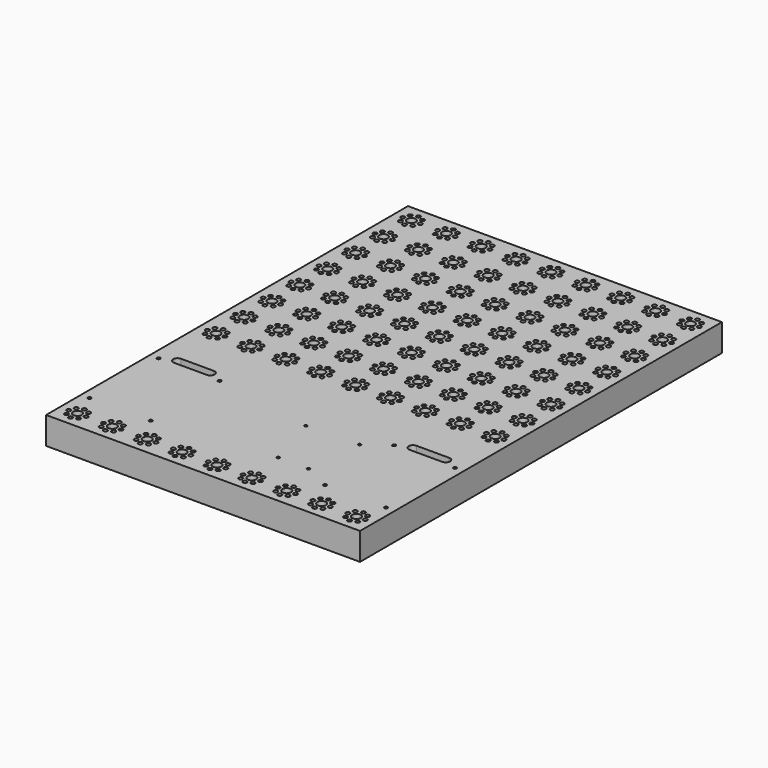
from build123d import *

# Parameters (mm, degrees)
F0_W     = 288
F0_H     = 415
F0_R     = 1.85
F0_R_2   = 4
F0_R_3   = 1.5
F2_DEPTH = 25
F1_R     = 1.85
F1_R_2   = 4
F1_R_3   = 1.3
F3_DEPTH = 25.001


with BuildPart() as f2:
    # F0 (on Top) → F2 (new body)
    with BuildSketch(Plane.XY):
        with Locations((144, -207.5)):
            Rectangle(F0_W, F0_H)
        with Locations((10.343146, -404.656854)):
            Circle(F0_R, mode=Mode.SUBTRACT)
        with Locations((16, -407)):
            Circle(F0_R, mode=Mode.SUBTRACT)
        with Locations((8, -399)):
            Circle(F0_R, mode=Mode.SUBTRACT)
        with Locations((16, -399)):
            Circle(F0_R_2, mode=Mode.SUBTRACT)
        with Locations((10.343146, -393.343146)):
            Circle(F0_R, mode=Mode.SUBTRACT)
        with Locations((16, -391)):
            Circle(F0_R, mode=Mode.SUBTRACT)
        with Locations((21.656854, -404.656854)):
            Circle(F0_R, mode=Mode.SUBTRACT)
        with Locations((24, -399)):
            Circle(F0_R, mode=Mode.SUBTRACT)
        with Locations((21.656854, -393.343146)):
            Circle(F0_R, mode=Mode.SUBTRACT)
        with Locations((8, -375)):
            Circle(F0_R_3, mode=Mode.SUBTRACT)
        with Locations((42.343146, -404.656854)):
            Circle(F0_R, mode=Mode.SUBTRACT)
        with Locations((48, -407)):
            Circle(F0_R, mode=Mode.SUBTRACT)
        with Locations((53.656854, -404.656854)):
            Circle(F0_R, mode=Mode.SUBTRACT)
        with Locations((40, -399)):
            Circle(F0_R, mode=Mode.SUBTRACT)
        with Locations((42.343146, -393.343146)):
            Circle(F0_R, mode=Mode.SUBTRACT)
        with Locations((48, -399)):
            Circle(F0_R_2, mode=Mode.SUBTRACT)
        with Locations((48, -391)):
            Circle(F0_R, mode=Mode.SUBTRACT)
        with Locations((53.656854, -393.343146)):
            Circle(F0_R, mode=Mode.SUBTRACT)
        with Locations((56, -399)):
            Circle(F0_R, mode=Mode.SUBTRACT)
        with Locations((64, -375)):
            Circle(F0_R_3, mode=Mode.SUBTRACT)
        with Locations((74.343146, -404.656854)):
            Circle(F0_R, mode=Mode.SUBTRACT)
        with Locations((80, -407)):
            Circle(F0_R, mode=Mode.SUBTRACT)
        with Locations((85.656854, -404.656854)):
            Circle(F0_R, mode=Mode.SUBTRACT)
        with Locations((72, -399)):
            Circle(F0_R, mode=Mode.SUBTRACT)
        with Locations((80, -399)):
            Circle(F0_R_2, mode=Mode.SUBTRACT)
        with Locations((74.343146, -393.343146)):
            Circle(F0_R, mode=Mode.SUBTRACT)
        with Locations((80, -391)):
            Circle(F0_R, mode=Mode.SUBTRACT)
        with Locations((88, -399)):
            Circle(F0_R, mode=Mode.SUBTRACT)
        with Locations((85.656854, -393.343146)):
            Circle(F0_R, mode=Mode.SUBTRACT)
        with Locations((106.343146, -404.656854)):
            Circle(F0_R, mode=Mode.SUBTRACT)
        with Locations((104, -399)):
            Circle(F0_R, mode=Mode.SUBTRACT)
        with Locations((106.343146, -393.343146)):
            Circle(F0_R, mode=Mode.SUBTRACT)
        with Locations((112, -407)):
            Circle(F0_R, mode=Mode.SUBTRACT)
        with Locations((117.656854, -404.656854)):
            Circle(F0_R, mode=Mode.SUBTRACT)
        with Locations((112, -399)):
            Circle(F0_R_2, mode=Mode.SUBTRACT)
        with Locations((112, -391)):
            Circle(F0_R, mode=Mode.SUBTRACT)
        with Locations((120, -399)):
            Circle(F0_R, mode=Mode.SUBTRACT)
        with Locations((117.656854, -393.343146)):
            Circle(F0_R, mode=Mode.SUBTRACT)
        with Locations((138.343146, -404.656854)):
            Circle(F0_R, mode=Mode.SUBTRACT)
        with Locations((136, -399)):
            Circle(F0_R, mode=Mode.SUBTRACT)
        with Locations((138.343146, -393.343146)):
            Circle(F0_R, mode=Mode.SUBTRACT)
        with Locations((8, -296)):
            Circle(F0_R_3, mode=Mode.SUBTRACT)
        with BuildLine():
            ThreePointArc((17, -290.5), (18.171573, -287.671573), (21, -286.5))
            Line((21, -286.5), (51, -286.5))
            ThreePointArc((51, -286.5), (53.828427, -287.671573), (55, -290.5))
            ThreePointArc((55, -290.5), (53.828427, -293.328427), (51, -294.5))
            Line((51, -294.5), (21, -294.5))
            ThreePointArc((21, -294.5), (18.171573, -293.328427), (17, -290.5))
        make_face(mode=Mode.SUBTRACT)
        with Locations((64, -296)):
            Circle(F0_R_3, mode=Mode.SUBTRACT)
        with Locations((144, -407)):
            Circle(F0_R, mode=Mode.SUBTRACT)
        with Locations((149.656854, -404.656854)):
            Circle(F0_R, mode=Mode.SUBTRACT)
        with Locations((144, -399)):
            Circle(F0_R_2, mode=Mode.SUBTRACT)
        with Locations((152, -399)):
            Circle(F0_R, mode=Mode.SUBTRACT)
        with Locations((144, -391)):
            Circle(F0_R, mode=Mode.SUBTRACT)
        with Locations((149.656854, -393.343146)):
            Circle(F0_R, mode=Mode.SUBTRACT)
        with Locations((170.343146, -404.656854)):
            Circle(F0_R, mode=Mode.SUBTRACT)
        with Locations((176, -407)):
            Circle(F0_R, mode=Mode.SUBTRACT)
        with Locations((168, -399)):
            Circle(F0_R, mode=Mode.SUBTRACT)
        with Locations((170.343146, -393.343146)):
            Circle(F0_R, mode=Mode.SUBTRACT)
        with Locations((176, -399)):
            Circle(F0_R_2, mode=Mode.SUBTRACT)
        with Locations((176, -391)):
            Circle(F0_R, mode=Mode.SUBTRACT)
        with Locations((181.656854, -404.656854)):
            Circle(F0_R, mode=Mode.SUBTRACT)
        with Locations((184, -399)):
            Circle(F0_R, mode=Mode.SUBTRACT)
        with Locations((181.656854, -393.343146)):
            Circle(F0_R, mode=Mode.SUBTRACT)
        with Locations((202.343146, -404.656854)):
            Circle(F0_R, mode=Mode.SUBTRACT)
        with Locations((208, -407)):
            Circle(F0_R, mode=Mode.SUBTRACT)
        with Locations((213.656854, -404.656854)):
            Circle(F0_R, mode=Mode.SUBTRACT)
        with Locations((200, -399)):
            Circle(F0_R, mode=Mode.SUBTRACT)
        with Locations((202.343146, -393.343146)):
            Circle(F0_R, mode=Mode.SUBTRACT)
        with Locations((208, -399)):
            Circle(F0_R_2, mode=Mode.SUBTRACT)
        with Locations((208, -391)):
            Circle(F0_R, mode=Mode.SUBTRACT)
        with Locations((213.656854, -393.343146)):
            Circle(F0_R, mode=Mode.SUBTRACT)
        with Locations((216, -399)):
            Circle(F0_R, mode=Mode.SUBTRACT)
        with Locations((232, -399)):
            Circle(F0_R, mode=Mode.SUBTRACT)
        with Locations((234.343146, -404.656854)):
            Circle(F0_R, mode=Mode.SUBTRACT)
        with Locations((240, -407)):
            Circle(F0_R, mode=Mode.SUBTRACT)
        with Locations((245.656854, -404.656854)):
            Circle(F0_R, mode=Mode.SUBTRACT)
        with Locations((240, -399)):
            Circle(F0_R_2, mode=Mode.SUBTRACT)
        with Locations((234.343146, -393.343146)):
            Circle(F0_R, mode=Mode.SUBTRACT)
        with Locations((240, -391)):
            Circle(F0_R, mode=Mode.SUBTRACT)
        with Locations((248, -399)):
            Circle(F0_R, mode=Mode.SUBTRACT)
        with Locations((245.656854, -393.343146)):
            Circle(F0_R, mode=Mode.SUBTRACT)
        with Locations((224, -375)):
            Circle(F0_R_3, mode=Mode.SUBTRACT)
        with Locations((266.343146, -404.656854)):
            Circle(F0_R, mode=Mode.SUBTRACT)
        with Locations((264, -399)):
            Circle(F0_R, mode=Mode.SUBTRACT)
        with Locations((266.343146, -393.343146)):
            Circle(F0_R, mode=Mode.SUBTRACT)
        with Locations((272, -407)):
            Circle(F0_R, mode=Mode.SUBTRACT)
        with Locations((277.656854, -404.656854)):
            Circle(F0_R, mode=Mode.SUBTRACT)
        with Locations((272, -399)):
            Circle(F0_R_2, mode=Mode.SUBTRACT)
        with Locations((272, -391)):
            Circle(F0_R, mode=Mode.SUBTRACT)
        with Locations((277.656854, -393.343146)):
            Circle(F0_R, mode=Mode.SUBTRACT)
        with Locations((280, -399)):
            Circle(F0_R, mode=Mode.SUBTRACT)
        with Locations((280, -375)):
            Circle(F0_R_3, mode=Mode.SUBTRACT)
        with Locations((224, -296)):
            Circle(F0_R_3, mode=Mode.SUBTRACT)
        with BuildLine():
            Line((237, -286.5), (267, -286.5))
            ThreePointArc((267, -286.5), (269.828427, -287.671573), (271, -290.5))
            ThreePointArc((271, -290.5), (269.828427, -293.328427), (267, -294.5))
            Line((267, -294.5), (237, -294.5))
            ThreePointArc((237, -294.5), (234.171573, -293.328427), (233, -290.5))
            ThreePointArc((233, -290.5), (234.171573, -287.671573), (237, -286.5))
        make_face(mode=Mode.SUBTRACT)
        with Locations((280, -296)):
            Circle(F0_R_3, mode=Mode.SUBTRACT)
        with Locations((8, -16)):
            Circle(F0_R, mode=Mode.SUBTRACT)
        with Locations((10.343146, -21.656854)):
            Circle(F0_R, mode=Mode.SUBTRACT)
        with Locations((16, -24)):
            Circle(F0_R, mode=Mode.SUBTRACT)
        with Locations((16, -16)):
            Circle(F0_R_2, mode=Mode.SUBTRACT)
        with Locations((10.343146, -10.343146)):
            Circle(F0_R, mode=Mode.SUBTRACT)
        with Locations((16, -8)):
            Circle(F0_R, mode=Mode.SUBTRACT)
        with Locations((21.656854, -21.656854)):
            Circle(F0_R, mode=Mode.SUBTRACT)
        with Locations((24, -16)):
            Circle(F0_R, mode=Mode.SUBTRACT)
        with Locations((21.656854, -10.343146)):
            Circle(F0_R, mode=Mode.SUBTRACT)
        with Locations((42.343146, -21.656854)):
            Circle(F0_R, mode=Mode.SUBTRACT)
        with Locations((40, -16)):
            Circle(F0_R, mode=Mode.SUBTRACT)
        with Locations((48, -24)):
            Circle(F0_R, mode=Mode.SUBTRACT)
        with Locations((53.656854, -21.656854)):
            Circle(F0_R, mode=Mode.SUBTRACT)
        with Locations((48, -16)):
            Circle(F0_R_2, mode=Mode.SUBTRACT)
        with Locations((42.343146, -10.343146)):
            Circle(F0_R, mode=Mode.SUBTRACT)
        with Locations((48, -8)):
            Circle(F0_R, mode=Mode.SUBTRACT)
        with Locations((53.656854, -10.343146)):
            Circle(F0_R, mode=Mode.SUBTRACT)
        with Locations((56, -16)):
            Circle(F0_R, mode=Mode.SUBTRACT)
        with Locations((74.343146, -21.656854)):
            Circle(F0_R, mode=Mode.SUBTRACT)
        with Locations((80, -24)):
            Circle(F0_R, mode=Mode.SUBTRACT)
        with Locations((72, -16)):
            Circle(F0_R, mode=Mode.SUBTRACT)
        with Locations((80, -16)):
            Circle(F0_R_2, mode=Mode.SUBTRACT)
        with Locations((85.656854, -21.656854)):
            Circle(F0_R, mode=Mode.SUBTRACT)
        with Locations((88, -16)):
            Circle(F0_R, mode=Mode.SUBTRACT)
        with Locations((74.343146, -10.343146)):
            Circle(F0_R, mode=Mode.SUBTRACT)
        with Locations((80, -8)):
            Circle(F0_R, mode=Mode.SUBTRACT)
        with Locations((85.656854, -10.343146)):
            Circle(F0_R, mode=Mode.SUBTRACT)
        with Locations((106.343146, -21.656854)):
            Circle(F0_R, mode=Mode.SUBTRACT)
        with Locations((104, -16)):
            Circle(F0_R, mode=Mode.SUBTRACT)
        with Locations((106.343146, -10.343146)):
            Circle(F0_R, mode=Mode.SUBTRACT)
        with Locations((112, -24)):
            Circle(F0_R, mode=Mode.SUBTRACT)
        with Locations((112, -16)):
            Circle(F0_R_2, mode=Mode.SUBTRACT)
        with Locations((117.656854, -21.656854)):
            Circle(F0_R, mode=Mode.SUBTRACT)
        with Locations((120, -16)):
            Circle(F0_R, mode=Mode.SUBTRACT)
        with Locations((112, -8)):
            Circle(F0_R, mode=Mode.SUBTRACT)
        with Locations((117.656854, -10.343146)):
            Circle(F0_R, mode=Mode.SUBTRACT)
        with Locations((138.343146, -21.656854)):
            Circle(F0_R, mode=Mode.SUBTRACT)
        with Locations((136, -16)):
            Circle(F0_R, mode=Mode.SUBTRACT)
        with Locations((138.343146, -10.343146)):
            Circle(F0_R, mode=Mode.SUBTRACT)
        with Locations((144, -24)):
            Circle(F0_R, mode=Mode.SUBTRACT)
        with Locations((149.656854, -21.656854)):
            Circle(F0_R, mode=Mode.SUBTRACT)
        with Locations((144, -16)):
            Circle(F0_R_2, mode=Mode.SUBTRACT)
        with Locations((152, -16)):
            Circle(F0_R, mode=Mode.SUBTRACT)
        with Locations((144, -8)):
            Circle(F0_R, mode=Mode.SUBTRACT)
        with Locations((149.656854, -10.343146)):
            Circle(F0_R, mode=Mode.SUBTRACT)
        with Locations((170.343146, -21.656854)):
            Circle(F0_R, mode=Mode.SUBTRACT)
        with Locations((168, -16)):
            Circle(F0_R, mode=Mode.SUBTRACT)
        with Locations((176, -24)):
            Circle(F0_R, mode=Mode.SUBTRACT)
        with Locations((176, -16)):
            Circle(F0_R_2, mode=Mode.SUBTRACT)
        with Locations((170.343146, -10.343146)):
            Circle(F0_R, mode=Mode.SUBTRACT)
        with Locations((176, -8)):
            Circle(F0_R, mode=Mode.SUBTRACT)
        with Locations((181.656854, -21.656854)):
            Circle(F0_R, mode=Mode.SUBTRACT)
        with Locations((184, -16)):
            Circle(F0_R, mode=Mode.SUBTRACT)
        with Locations((181.656854, -10.343146)):
            Circle(F0_R, mode=Mode.SUBTRACT)
        with Locations((202.343146, -21.656854)):
            Circle(F0_R, mode=Mode.SUBTRACT)
        with Locations((200, -16)):
            Circle(F0_R, mode=Mode.SUBTRACT)
        with Locations((208, -24)):
            Circle(F0_R, mode=Mode.SUBTRACT)
        with Locations((213.656854, -21.656854)):
            Circle(F0_R, mode=Mode.SUBTRACT)
        with Locations((208, -16)):
            Circle(F0_R_2, mode=Mode.SUBTRACT)
        with Locations((202.343146, -10.343146)):
            Circle(F0_R, mode=Mode.SUBTRACT)
        with Locations((208, -8)):
            Circle(F0_R, mode=Mode.SUBTRACT)
        with Locations((213.656854, -10.343146)):
            Circle(F0_R, mode=Mode.SUBTRACT)
        with Locations((216, -16)):
            Circle(F0_R, mode=Mode.SUBTRACT)
        with Locations((232, -16)):
            Circle(F0_R, mode=Mode.SUBTRACT)
        with Locations((234.343146, -21.656854)):
            Circle(F0_R, mode=Mode.SUBTRACT)
        with Locations((240, -24)):
            Circle(F0_R, mode=Mode.SUBTRACT)
        with Locations((240, -16)):
            Circle(F0_R_2, mode=Mode.SUBTRACT)
        with Locations((245.656854, -21.656854)):
            Circle(F0_R, mode=Mode.SUBTRACT)
        with Locations((248, -16)):
            Circle(F0_R, mode=Mode.SUBTRACT)
        with Locations((234.343146, -10.343146)):
            Circle(F0_R, mode=Mode.SUBTRACT)
        with Locations((240, -8)):
            Circle(F0_R, mode=Mode.SUBTRACT)
        with Locations((245.656854, -10.343146)):
            Circle(F0_R, mode=Mode.SUBTRACT)
        with Locations((266.343146, -21.656854)):
            Circle(F0_R, mode=Mode.SUBTRACT)
        with Locations((264, -16)):
            Circle(F0_R, mode=Mode.SUBTRACT)
        with Locations((266.343146, -10.343146)):
            Circle(F0_R, mode=Mode.SUBTRACT)
        with Locations((272, -24)):
            Circle(F0_R, mode=Mode.SUBTRACT)
        with Locations((277.656854, -21.656854)):
            Circle(F0_R, mode=Mode.SUBTRACT)
        with Locations((272, -16)):
            Circle(F0_R_2, mode=Mode.SUBTRACT)
        with Locations((280, -16)):
            Circle(F0_R, mode=Mode.SUBTRACT)
        with Locations((272, -8)):
            Circle(F0_R, mode=Mode.SUBTRACT)
        with Locations((277.656854, -10.343146)):
            Circle(F0_R, mode=Mode.SUBTRACT)
    extrude(amount=F2_DEPTH)

    # F1 (on face) → F3 (cut, through all)
    with BuildSketch(Plane.XY):
        with Locations((24, -48)):
            Circle(F1_R)
        with Locations((16, -48)):
            Circle(F1_R_2)
        with Locations((21.656854, -42.343146)):
            Circle(F1_R)
        with Locations((16, -40)):
            Circle(F1_R)
        with Locations((10.343146, -42.343146)):
            Circle(F1_R)
        with Locations((8, -48)):
            Circle(F1_R)
        with Locations((10.343146, -53.656854)):
            Circle(F1_R)
        with Locations((16, -56)):
            Circle(F1_R)
        with Locations((21.656854, -53.656854)):
            Circle(F1_R)
        with Locations((16, -80)):
            Circle(F1_R_2)
        with Locations((16, -72)):
            Circle(F1_R)
        with Locations((21.656854, -74.343146)):
            Circle(F1_R)
        with Locations((24, -80)):
            Circle(F1_R)
        with Locations((21.656854, -85.656854)):
            Circle(F1_R)
        with Locations((16, -88)):
            Circle(F1_R)
        with Locations((10.343146, -85.656854)):
            Circle(F1_R)
        with Locations((8, -80)):
            Circle(F1_R)
        with Locations((10.343146, -74.343146)):
            Circle(F1_R)
        with Locations((16, -112)):
            Circle(F1_R_2)
        with Locations((16, -104)):
            Circle(F1_R)
        with Locations((21.656854, -106.343146)):
            Circle(F1_R)
        with Locations((24, -112)):
            Circle(F1_R)
        with Locations((21.656854, -117.656854)):
            Circle(F1_R)
        with Locations((16, -120)):
            Circle(F1_R)
        with Locations((10.343146, -117.656854)):
            Circle(F1_R)
        with Locations((8, -112)):
            Circle(F1_R)
        with Locations((10.343146, -106.343146)):
            Circle(F1_R)
        with Locations((16, -144)):
            Circle(F1_R_2)
        with Locations((16, -136)):
            Circle(F1_R)
        with Locations((21.656854, -138.343146)):
            Circle(F1_R)
        with Locations((24, -144)):
            Circle(F1_R)
        with Locations((21.656854, -149.656854)):
            Circle(F1_R)
        with Locations((16, -152)):
            Circle(F1_R)
        with Locations((10.343146, -149.656854)):
            Circle(F1_R)
        with Locations((8, -144)):
            Circle(F1_R)
        with Locations((10.343146, -138.343146)):
            Circle(F1_R)
        with Locations((16, -176)):
            Circle(F1_R_2)
        with Locations((16, -168)):
            Circle(F1_R)
        with Locations((21.656854, -170.343146)):
            Circle(F1_R)
        with Locations((24, -176)):
            Circle(F1_R)
        with Locations((21.656854, -181.656854)):
            Circle(F1_R)
        with Locations((16, -184)):
            Circle(F1_R)
        with Locations((10.343146, -181.656854)):
            Circle(F1_R)
        with Locations((8, -176)):
            Circle(F1_R)
        with Locations((10.343146, -170.343146)):
            Circle(F1_R)
        with Locations((16, -208)):
            Circle(F1_R_2)
        with Locations((16, -200)):
            Circle(F1_R)
        with Locations((21.656854, -202.343146)):
            Circle(F1_R)
        with Locations((24, -208)):
            Circle(F1_R)
        with Locations((21.656854, -213.656854)):
            Circle(F1_R)
        with Locations((16, -216)):
            Circle(F1_R)
        with Locations((10.343146, -213.656854)):
            Circle(F1_R)
        with Locations((8, -208)):
            Circle(F1_R)
        with Locations((10.343146, -202.343146)):
            Circle(F1_R)
        with Locations((16, -240)):
            Circle(F1_R_2)
        with Locations((16, -232)):
            Circle(F1_R)
        with Locations((21.656854, -234.343146)):
            Circle(F1_R)
        with Locations((24, -240)):
            Circle(F1_R)
        with Locations((21.656854, -245.656854)):
            Circle(F1_R)
        with Locations((16, -248)):
            Circle(F1_R)
        with Locations((10.343146, -245.656854)):
            Circle(F1_R)
        with Locations((8, -240)):
            Circle(F1_R)
        with Locations((10.343146, -234.343146)):
            Circle(F1_R)
        with Locations((48, -48)):
            Circle(F1_R_2)
        with Locations((48, -40)):
            Circle(F1_R)
        with Locations((53.656854, -42.343146)):
            Circle(F1_R)
        with Locations((56, -48)):
            Circle(F1_R)
        with Locations((53.656854, -53.656854)):
            Circle(F1_R)
        with Locations((48, -56)):
            Circle(F1_R)
        with Locations((42.343146, -53.656854)):
            Circle(F1_R)
        with Locations((40, -48)):
            Circle(F1_R)
        with Locations((42.343146, -42.343146)):
            Circle(F1_R)
        with Locations((48, -80)):
            Circle(F1_R_2)
        with Locations((48, -72)):
            Circle(F1_R)
        with Locations((53.656854, -74.343146)):
            Circle(F1_R)
        with Locations((56, -80)):
            Circle(F1_R)
        with Locations((53.656854, -85.656854)):
            Circle(F1_R)
        with Locations((48, -88)):
            Circle(F1_R)
        with Locations((42.343146, -85.656854)):
            Circle(F1_R)
        with Locations((40, -80)):
            Circle(F1_R)
        with Locations((42.343146, -74.343146)):
            Circle(F1_R)
        with Locations((48, -112)):
            Circle(F1_R_2)
        with Locations((48, -104)):
            Circle(F1_R)
        with Locations((53.656854, -106.343146)):
            Circle(F1_R)
        with Locations((56, -112)):
            Circle(F1_R)
        with Locations((53.656854, -117.656854)):
            Circle(F1_R)
        with Locations((48, -120)):
            Circle(F1_R)
        with Locations((42.343146, -117.656854)):
            Circle(F1_R)
        with Locations((40, -112)):
            Circle(F1_R)
        with Locations((42.343146, -106.343146)):
            Circle(F1_R)
        with Locations((48, -144)):
            Circle(F1_R_2)
        with Locations((48, -136)):
            Circle(F1_R)
        with Locations((53.656854, -138.343146)):
            Circle(F1_R)
        with Locations((56, -144)):
            Circle(F1_R)
        with Locations((53.656854, -149.656854)):
            Circle(F1_R)
        with Locations((48, -152)):
            Circle(F1_R)
        with Locations((42.343146, -149.656854)):
            Circle(F1_R)
        with Locations((40, -144)):
            Circle(F1_R)
        with Locations((42.343146, -138.343146)):
            Circle(F1_R)
        with Locations((48, -176)):
            Circle(F1_R_2)
        with Locations((48, -168)):
            Circle(F1_R)
        with Locations((53.656854, -170.343146)):
            Circle(F1_R)
        with Locations((56, -176)):
            Circle(F1_R)
        with Locations((53.656854, -181.656854)):
            Circle(F1_R)
        with Locations((48, -184)):
            Circle(F1_R)
        with Locations((42.343146, -181.656854)):
            Circle(F1_R)
        with Locations((40, -176)):
            Circle(F1_R)
        with Locations((42.343146, -170.343146)):
            Circle(F1_R)
        with Locations((48, -208)):
            Circle(F1_R_2)
        with Locations((48, -200)):
            Circle(F1_R)
        with Locations((53.656854, -202.343146)):
            Circle(F1_R)
        with Locations((56, -208)):
            Circle(F1_R)
        with Locations((53.656854, -213.656854)):
            Circle(F1_R)
        with Locations((48, -216)):
            Circle(F1_R)
        with Locations((42.343146, -213.656854)):
            Circle(F1_R)
        with Locations((40, -208)):
            Circle(F1_R)
        with Locations((42.343146, -202.343146)):
            Circle(F1_R)
        with Locations((48, -240)):
            Circle(F1_R_2)
        with Locations((48, -232)):
            Circle(F1_R)
        with Locations((53.656854, -234.343146)):
            Circle(F1_R)
        with Locations((56, -240)):
            Circle(F1_R)
        with Locations((53.656854, -245.656854)):
            Circle(F1_R)
        with Locations((48, -248)):
            Circle(F1_R)
        with Locations((42.343146, -245.656854)):
            Circle(F1_R)
        with Locations((40, -240)):
            Circle(F1_R)
        with Locations((42.343146, -234.343146)):
            Circle(F1_R)
        with Locations((80, -48)):
            Circle(F1_R_2)
        with Locations((80, -40)):
            Circle(F1_R)
        with Locations((85.656854, -42.343146)):
            Circle(F1_R)
        with Locations((88, -48)):
            Circle(F1_R)
        with Locations((85.656854, -53.656854)):
            Circle(F1_R)
        with Locations((80, -56)):
            Circle(F1_R)
        with Locations((74.343146, -53.656854)):
            Circle(F1_R)
        with Locations((72, -48)):
            Circle(F1_R)
        with Locations((74.343146, -42.343146)):
            Circle(F1_R)
        with Locations((80, -80)):
            Circle(F1_R_2)
        with Locations((80, -72)):
            Circle(F1_R)
        with Locations((85.656854, -74.343146)):
            Circle(F1_R)
        with Locations((88, -80)):
            Circle(F1_R)
        with Locations((85.656854, -85.656854)):
            Circle(F1_R)
        with Locations((80, -88)):
            Circle(F1_R)
        with Locations((74.343146, -85.656854)):
            Circle(F1_R)
        with Locations((72, -80)):
            Circle(F1_R)
        with Locations((74.343146, -74.343146)):
            Circle(F1_R)
        with Locations((80, -112)):
            Circle(F1_R_2)
        with Locations((80, -104)):
            Circle(F1_R)
        with Locations((85.656854, -106.343146)):
            Circle(F1_R)
        with Locations((88, -112)):
            Circle(F1_R)
        with Locations((85.656854, -117.656854)):
            Circle(F1_R)
        with Locations((80, -120)):
            Circle(F1_R)
        with Locations((74.343146, -117.656854)):
            Circle(F1_R)
        with Locations((72, -112)):
            Circle(F1_R)
        with Locations((74.343146, -106.343146)):
            Circle(F1_R)
        with Locations((80, -144)):
            Circle(F1_R_2)
        with Locations((80, -136)):
            Circle(F1_R)
        with Locations((85.656854, -138.343146)):
            Circle(F1_R)
        with Locations((88, -144)):
            Circle(F1_R)
        with Locations((85.656854, -149.656854)):
            Circle(F1_R)
        with Locations((80, -152)):
            Circle(F1_R)
        with Locations((74.343146, -149.656854)):
            Circle(F1_R)
        with Locations((72, -144)):
            Circle(F1_R)
        with Locations((74.343146, -138.343146)):
            Circle(F1_R)
        with Locations((80, -176)):
            Circle(F1_R_2)
        with Locations((80, -168)):
            Circle(F1_R)
        with Locations((85.656854, -170.343146)):
            Circle(F1_R)
        with Locations((88, -176)):
            Circle(F1_R)
        with Locations((85.656854, -181.656854)):
            Circle(F1_R)
        with Locations((80, -184)):
            Circle(F1_R)
        with Locations((74.343146, -181.656854)):
            Circle(F1_R)
        with Locations((72, -176)):
            Circle(F1_R)
        with Locations((74.343146, -170.343146)):
            Circle(F1_R)
        with Locations((80, -208)):
            Circle(F1_R_2)
        with Locations((80, -200)):
            Circle(F1_R)
        with Locations((85.656854, -202.343146)):
            Circle(F1_R)
        with Locations((88, -208)):
            Circle(F1_R)
        with Locations((85.656854, -213.656854)):
            Circle(F1_R)
        with Locations((80, -216)):
            Circle(F1_R)
        with Locations((74.343146, -213.656854)):
            Circle(F1_R)
        with Locations((72, -208)):
            Circle(F1_R)
        with Locations((74.343146, -202.343146)):
            Circle(F1_R)
        with Locations((80, -240)):
            Circle(F1_R_2)
        with Locations((80, -232)):
            Circle(F1_R)
        with Locations((85.656854, -234.343146)):
            Circle(F1_R)
        with Locations((88, -240)):
            Circle(F1_R)
        with Locations((85.656854, -245.656854)):
            Circle(F1_R)
        with Locations((80, -248)):
            Circle(F1_R)
        with Locations((74.343146, -245.656854)):
            Circle(F1_R)
        with Locations((72, -240)):
            Circle(F1_R)
        with Locations((74.343146, -234.343146)):
            Circle(F1_R)
        with Locations((112, -48)):
            Circle(F1_R_2)
        with Locations((112, -40)):
            Circle(F1_R)
        with Locations((117.656854, -42.343146)):
            Circle(F1_R)
        with Locations((120, -48)):
            Circle(F1_R)
        with Locations((117.656854, -53.656854)):
            Circle(F1_R)
        with Locations((112, -56)):
            Circle(F1_R)
        with Locations((106.343146, -53.656854)):
            Circle(F1_R)
        with Locations((104, -48)):
            Circle(F1_R)
        with Locations((106.343146, -42.343146)):
            Circle(F1_R)
        with Locations((112, -80)):
            Circle(F1_R_2)
        with Locations((112, -72)):
            Circle(F1_R)
        with Locations((117.656854, -74.343146)):
            Circle(F1_R)
        with Locations((120, -80)):
            Circle(F1_R)
        with Locations((117.656854, -85.656854)):
            Circle(F1_R)
        with Locations((112, -88)):
            Circle(F1_R)
        with Locations((106.343146, -85.656854)):
            Circle(F1_R)
        with Locations((104, -80)):
            Circle(F1_R)
        with Locations((106.343146, -74.343146)):
            Circle(F1_R)
        with Locations((112, -112)):
            Circle(F1_R_2)
        with Locations((112, -104)):
            Circle(F1_R)
        with Locations((117.656854, -106.343146)):
            Circle(F1_R)
        with Locations((120, -112)):
            Circle(F1_R)
        with Locations((117.656854, -117.656854)):
            Circle(F1_R)
        with Locations((112, -120)):
            Circle(F1_R)
        with Locations((106.343146, -117.656854)):
            Circle(F1_R)
        with Locations((104, -112)):
            Circle(F1_R)
        with Locations((106.343146, -106.343146)):
            Circle(F1_R)
        with Locations((112, -144)):
            Circle(F1_R_2)
        with Locations((112, -136)):
            Circle(F1_R)
        with Locations((117.656854, -138.343146)):
            Circle(F1_R)
        with Locations((120, -144)):
            Circle(F1_R)
        with Locations((117.656854, -149.656854)):
            Circle(F1_R)
        with Locations((112, -152)):
            Circle(F1_R)
        with Locations((106.343146, -149.656854)):
            Circle(F1_R)
        with Locations((104, -144)):
            Circle(F1_R)
        with Locations((106.343146, -138.343146)):
            Circle(F1_R)
        with Locations((112, -176)):
            Circle(F1_R_2)
        with Locations((112, -168)):
            Circle(F1_R)
        with Locations((117.656854, -170.343146)):
            Circle(F1_R)
        with Locations((120, -176)):
            Circle(F1_R)
        with Locations((117.656854, -181.656854)):
            Circle(F1_R)
        with Locations((112, -184)):
            Circle(F1_R)
        with Locations((106.343146, -181.656854)):
            Circle(F1_R)
        with Locations((104, -176)):
            Circle(F1_R)
        with Locations((106.343146, -170.343146)):
            Circle(F1_R)
        with Locations((112, -208)):
            Circle(F1_R_2)
        with Locations((112, -200)):
            Circle(F1_R)
        with Locations((117.656854, -202.343146)):
            Circle(F1_R)
        with Locations((120, -208)):
            Circle(F1_R)
        with Locations((117.656854, -213.656854)):
            Circle(F1_R)
        with Locations((112, -216)):
            Circle(F1_R)
        with Locations((106.343146, -213.656854)):
            Circle(F1_R)
        with Locations((104, -208)):
            Circle(F1_R)
        with Locations((106.343146, -202.343146)):
            Circle(F1_R)
        with Locations((112, -240)):
            Circle(F1_R_2)
        with Locations((112, -232)):
            Circle(F1_R)
        with Locations((117.656854, -234.343146)):
            Circle(F1_R)
        with Locations((120, -240)):
            Circle(F1_R)
        with Locations((117.656854, -245.656854)):
            Circle(F1_R)
        with Locations((112, -248)):
            Circle(F1_R)
        with Locations((106.343146, -245.656854)):
            Circle(F1_R)
        with Locations((104, -240)):
            Circle(F1_R)
        with Locations((106.343146, -234.343146)):
            Circle(F1_R)
        with Locations((144, -48)):
            Circle(F1_R_2)
        with Locations((144, -40)):
            Circle(F1_R)
        with Locations((149.656854, -42.343146)):
            Circle(F1_R)
        with Locations((152, -48)):
            Circle(F1_R)
        with Locations((149.656854, -53.656854)):
            Circle(F1_R)
        with Locations((144, -56)):
            Circle(F1_R)
        with Locations((138.343146, -53.656854)):
            Circle(F1_R)
        with Locations((136, -48)):
            Circle(F1_R)
        with Locations((138.343146, -42.343146)):
            Circle(F1_R)
        with Locations((144, -80)):
            Circle(F1_R_2)
        with Locations((144, -72)):
            Circle(F1_R)
        with Locations((149.656854, -74.343146)):
            Circle(F1_R)
        with Locations((152, -80)):
            Circle(F1_R)
        with Locations((149.656854, -85.656854)):
            Circle(F1_R)
        with Locations((144, -88)):
            Circle(F1_R)
        with Locations((138.343146, -85.656854)):
            Circle(F1_R)
        with Locations((136, -80)):
            Circle(F1_R)
        with Locations((138.343146, -74.343146)):
            Circle(F1_R)
        with Locations((144, -112)):
            Circle(F1_R_2)
        with Locations((144, -104)):
            Circle(F1_R)
        with Locations((149.656854, -106.343146)):
            Circle(F1_R)
        with Locations((152, -112)):
            Circle(F1_R)
        with Locations((149.656854, -117.656854)):
            Circle(F1_R)
        with Locations((144, -120)):
            Circle(F1_R)
        with Locations((138.343146, -117.656854)):
            Circle(F1_R)
        with Locations((136, -112)):
            Circle(F1_R)
        with Locations((138.343146, -106.343146)):
            Circle(F1_R)
        with Locations((144, -144)):
            Circle(F1_R_2)
        with Locations((144, -136)):
            Circle(F1_R)
        with Locations((149.656854, -138.343146)):
            Circle(F1_R)
        with Locations((152, -144)):
            Circle(F1_R)
        with Locations((149.656854, -149.656854)):
            Circle(F1_R)
        with Locations((144, -152)):
            Circle(F1_R)
        with Locations((138.343146, -149.656854)):
            Circle(F1_R)
        with Locations((136, -144)):
            Circle(F1_R)
        with Locations((138.343146, -138.343146)):
            Circle(F1_R)
        with Locations((144, -176)):
            Circle(F1_R_2)
        with Locations((144, -168)):
            Circle(F1_R)
        with Locations((149.656854, -170.343146)):
            Circle(F1_R)
        with Locations((152, -176)):
            Circle(F1_R)
        with Locations((149.656854, -181.656854)):
            Circle(F1_R)
        with Locations((144, -184)):
            Circle(F1_R)
        with Locations((138.343146, -181.656854)):
            Circle(F1_R)
        with Locations((136, -176)):
            Circle(F1_R)
        with Locations((138.343146, -170.343146)):
            Circle(F1_R)
        with Locations((144, -208)):
            Circle(F1_R_2)
        with Locations((144, -200)):
            Circle(F1_R)
        with Locations((149.656854, -202.343146)):
            Circle(F1_R)
        with Locations((152, -208)):
            Circle(F1_R)
        with Locations((149.656854, -213.656854)):
            Circle(F1_R)
        with Locations((144, -216)):
            Circle(F1_R)
        with Locations((138.343146, -213.656854)):
            Circle(F1_R)
        with Locations((136, -208)):
            Circle(F1_R)
        with Locations((138.343146, -202.343146)):
            Circle(F1_R)
        with Locations((144, -240)):
            Circle(F1_R_2)
        with Locations((144, -232)):
            Circle(F1_R)
        with Locations((149.656854, -234.343146)):
            Circle(F1_R)
        with Locations((152, -240)):
            Circle(F1_R)
        with Locations((149.656854, -245.656854)):
            Circle(F1_R)
        with Locations((144, -248)):
            Circle(F1_R)
        with Locations((138.343146, -245.656854)):
            Circle(F1_R)
        with Locations((136, -240)):
            Circle(F1_R)
        with Locations((138.343146, -234.343146)):
            Circle(F1_R)
        with Locations((176, -48)):
            Circle(F1_R_2)
        with Locations((176, -40)):
            Circle(F1_R)
        with Locations((181.656854, -42.343146)):
            Circle(F1_R)
        with Locations((184, -48)):
            Circle(F1_R)
        with Locations((181.656854, -53.656854)):
            Circle(F1_R)
        with Locations((176, -56)):
            Circle(F1_R)
        with Locations((170.343146, -53.656854)):
            Circle(F1_R)
        with Locations((168, -48)):
            Circle(F1_R)
        with Locations((170.343146, -42.343146)):
            Circle(F1_R)
        with Locations((176, -80)):
            Circle(F1_R_2)
        with Locations((176, -72)):
            Circle(F1_R)
        with Locations((181.656854, -74.343146)):
            Circle(F1_R)
        with Locations((184, -80)):
            Circle(F1_R)
        with Locations((181.656854, -85.656854)):
            Circle(F1_R)
        with Locations((176, -88)):
            Circle(F1_R)
        with Locations((170.343146, -85.656854)):
            Circle(F1_R)
        with Locations((168, -80)):
            Circle(F1_R)
        with Locations((170.343146, -74.343146)):
            Circle(F1_R)
        with Locations((176, -112)):
            Circle(F1_R_2)
        with Locations((176, -104)):
            Circle(F1_R)
        with Locations((181.656854, -106.343146)):
            Circle(F1_R)
        with Locations((184, -112)):
            Circle(F1_R)
        with Locations((181.656854, -117.656854)):
            Circle(F1_R)
        with Locations((176, -120)):
            Circle(F1_R)
        with Locations((170.343146, -117.656854)):
            Circle(F1_R)
        with Locations((168, -112)):
            Circle(F1_R)
        with Locations((170.343146, -106.343146)):
            Circle(F1_R)
        with Locations((176, -144)):
            Circle(F1_R_2)
        with Locations((176, -136)):
            Circle(F1_R)
        with Locations((181.656854, -138.343146)):
            Circle(F1_R)
        with Locations((184, -144)):
            Circle(F1_R)
        with Locations((181.656854, -149.656854)):
            Circle(F1_R)
        with Locations((176, -152)):
            Circle(F1_R)
        with Locations((170.343146, -149.656854)):
            Circle(F1_R)
        with Locations((168, -144)):
            Circle(F1_R)
        with Locations((170.343146, -138.343146)):
            Circle(F1_R)
        with Locations((176, -176)):
            Circle(F1_R_2)
        with Locations((176, -168)):
            Circle(F1_R)
        with Locations((181.656854, -170.343146)):
            Circle(F1_R)
        with Locations((184, -176)):
            Circle(F1_R)
        with Locations((181.656854, -181.656854)):
            Circle(F1_R)
        with Locations((176, -184)):
            Circle(F1_R)
        with Locations((170.343146, -181.656854)):
            Circle(F1_R)
        with Locations((168, -176)):
            Circle(F1_R)
        with Locations((170.343146, -170.343146)):
            Circle(F1_R)
        with Locations((176, -208)):
            Circle(F1_R_2)
        with Locations((176, -200)):
            Circle(F1_R)
        with Locations((181.656854, -202.343146)):
            Circle(F1_R)
        with Locations((184, -208)):
            Circle(F1_R)
        with Locations((181.656854, -213.656854)):
            Circle(F1_R)
        with Locations((176, -216)):
            Circle(F1_R)
        with Locations((170.343146, -213.656854)):
            Circle(F1_R)
        with Locations((168, -208)):
            Circle(F1_R)
        with Locations((170.343146, -202.343146)):
            Circle(F1_R)
        with Locations((176, -240)):
            Circle(F1_R_2)
        with Locations((176, -232)):
            Circle(F1_R)
        with Locations((181.656854, -234.343146)):
            Circle(F1_R)
        with Locations((184, -240)):
            Circle(F1_R)
        with Locations((181.656854, -245.656854)):
            Circle(F1_R)
        with Locations((176, -248)):
            Circle(F1_R)
        with Locations((170.343146, -245.656854)):
            Circle(F1_R)
        with Locations((168, -240)):
            Circle(F1_R)
        with Locations((170.343146, -234.343146)):
            Circle(F1_R)
        with Locations((208, -48)):
            Circle(F1_R_2)
        with Locations((208, -40)):
            Circle(F1_R)
        with Locations((213.656854, -42.343146)):
            Circle(F1_R)
        with Locations((216, -48)):
            Circle(F1_R)
        with Locations((213.656854, -53.656854)):
            Circle(F1_R)
        with Locations((208, -56)):
            Circle(F1_R)
        with Locations((202.343146, -53.656854)):
            Circle(F1_R)
        with Locations((200, -48)):
            Circle(F1_R)
        with Locations((202.343146, -42.343146)):
            Circle(F1_R)
        with Locations((208, -80)):
            Circle(F1_R_2)
        with Locations((208, -72)):
            Circle(F1_R)
        with Locations((213.656854, -74.343146)):
            Circle(F1_R)
        with Locations((216, -80)):
            Circle(F1_R)
        with Locations((213.656854, -85.656854)):
            Circle(F1_R)
        with Locations((208, -88)):
            Circle(F1_R)
        with Locations((202.343146, -85.656854)):
            Circle(F1_R)
        with Locations((200, -80)):
            Circle(F1_R)
        with Locations((202.343146, -74.343146)):
            Circle(F1_R)
        with Locations((208, -112)):
            Circle(F1_R_2)
        with Locations((208, -104)):
            Circle(F1_R)
        with Locations((213.656854, -106.343146)):
            Circle(F1_R)
        with Locations((216, -112)):
            Circle(F1_R)
        with Locations((213.656854, -117.656854)):
            Circle(F1_R)
        with Locations((208, -120)):
            Circle(F1_R)
        with Locations((202.343146, -117.656854)):
            Circle(F1_R)
        with Locations((200, -112)):
            Circle(F1_R)
        with Locations((202.343146, -106.343146)):
            Circle(F1_R)
        with Locations((208, -144)):
            Circle(F1_R_2)
        with Locations((208, -136)):
            Circle(F1_R)
        with Locations((213.656854, -138.343146)):
            Circle(F1_R)
        with Locations((216, -144)):
            Circle(F1_R)
        with Locations((213.656854, -149.656854)):
            Circle(F1_R)
        with Locations((208, -152)):
            Circle(F1_R)
        with Locations((202.343146, -149.656854)):
            Circle(F1_R)
        with Locations((200, -144)):
            Circle(F1_R)
        with Locations((202.343146, -138.343146)):
            Circle(F1_R)
        with Locations((208, -176)):
            Circle(F1_R_2)
        with Locations((208, -168)):
            Circle(F1_R)
        with Locations((213.656854, -170.343146)):
            Circle(F1_R)
        with Locations((216, -176)):
            Circle(F1_R)
        with Locations((213.656854, -181.656854)):
            Circle(F1_R)
        with Locations((208, -184)):
            Circle(F1_R)
        with Locations((202.343146, -181.656854)):
            Circle(F1_R)
        with Locations((200, -176)):
            Circle(F1_R)
        with Locations((202.343146, -170.343146)):
            Circle(F1_R)
        with Locations((208, -208)):
            Circle(F1_R_2)
        with Locations((208, -200)):
            Circle(F1_R)
        with Locations((213.656854, -202.343146)):
            Circle(F1_R)
        with Locations((216, -208)):
            Circle(F1_R)
        with Locations((213.656854, -213.656854)):
            Circle(F1_R)
        with Locations((208, -216)):
            Circle(F1_R)
        with Locations((202.343146, -213.656854)):
            Circle(F1_R)
        with Locations((200, -208)):
            Circle(F1_R)
        with Locations((202.343146, -202.343146)):
            Circle(F1_R)
        with Locations((208, -240)):
            Circle(F1_R_2)
        with Locations((208, -232)):
            Circle(F1_R)
        with Locations((213.656854, -234.343146)):
            Circle(F1_R)
        with Locations((216, -240)):
            Circle(F1_R)
        with Locations((213.656854, -245.656854)):
            Circle(F1_R)
        with Locations((208, -248)):
            Circle(F1_R)
        with Locations((202.343146, -245.656854)):
            Circle(F1_R)
        with Locations((200, -240)):
            Circle(F1_R)
        with Locations((202.343146, -234.343146)):
            Circle(F1_R)
        with Locations((240, -48)):
            Circle(F1_R_2)
        with Locations((240, -40)):
            Circle(F1_R)
        with Locations((245.656854, -42.343146)):
            Circle(F1_R)
        with Locations((248, -48)):
            Circle(F1_R)
        with Locations((245.656854, -53.656854)):
            Circle(F1_R)
        with Locations((240, -56)):
            Circle(F1_R)
        with Locations((234.343146, -53.656854)):
            Circle(F1_R)
        with Locations((232, -48)):
            Circle(F1_R)
        with Locations((234.343146, -42.343146)):
            Circle(F1_R)
        with Locations((240, -80)):
            Circle(F1_R_2)
        with Locations((240, -72)):
            Circle(F1_R)
        with Locations((245.656854, -74.343146)):
            Circle(F1_R)
        with Locations((248, -80)):
            Circle(F1_R)
        with Locations((245.656854, -85.656854)):
            Circle(F1_R)
        with Locations((240, -88)):
            Circle(F1_R)
        with Locations((234.343146, -85.656854)):
            Circle(F1_R)
        with Locations((232, -80)):
            Circle(F1_R)
        with Locations((234.343146, -74.343146)):
            Circle(F1_R)
        with Locations((240, -112)):
            Circle(F1_R_2)
        with Locations((240, -104)):
            Circle(F1_R)
        with Locations((245.656854, -106.343146)):
            Circle(F1_R)
        with Locations((248, -112)):
            Circle(F1_R)
        with Locations((245.656854, -117.656854)):
            Circle(F1_R)
        with Locations((240, -120)):
            Circle(F1_R)
        with Locations((234.343146, -117.656854)):
            Circle(F1_R)
        with Locations((232, -112)):
            Circle(F1_R)
        with Locations((234.343146, -106.343146)):
            Circle(F1_R)
        with Locations((240, -144)):
            Circle(F1_R_2)
        with Locations((240, -136)):
            Circle(F1_R)
        with Locations((245.656854, -138.343146)):
            Circle(F1_R)
        with Locations((248, -144)):
            Circle(F1_R)
        with Locations((245.656854, -149.656854)):
            Circle(F1_R)
        with Locations((240, -152)):
            Circle(F1_R)
        with Locations((234.343146, -149.656854)):
            Circle(F1_R)
        with Locations((232, -144)):
            Circle(F1_R)
        with Locations((234.343146, -138.343146)):
            Circle(F1_R)
        with Locations((240, -176)):
            Circle(F1_R_2)
        with Locations((240, -168)):
            Circle(F1_R)
        with Locations((245.656854, -170.343146)):
            Circle(F1_R)
        with Locations((248, -176)):
            Circle(F1_R)
        with Locations((245.656854, -181.656854)):
            Circle(F1_R)
        with Locations((240, -184)):
            Circle(F1_R)
        with Locations((234.343146, -181.656854)):
            Circle(F1_R)
        with Locations((232, -176)):
            Circle(F1_R)
        with Locations((234.343146, -170.343146)):
            Circle(F1_R)
        with Locations((240, -208)):
            Circle(F1_R_2)
        with Locations((240, -200)):
            Circle(F1_R)
        with Locations((245.656854, -202.343146)):
            Circle(F1_R)
        with Locations((248, -208)):
            Circle(F1_R)
        with Locations((245.656854, -213.656854)):
            Circle(F1_R)
        with Locations((240, -216)):
            Circle(F1_R)
        with Locations((234.343146, -213.656854)):
            Circle(F1_R)
        with Locations((232, -208)):
            Circle(F1_R)
        with Locations((234.343146, -202.343146)):
            Circle(F1_R)
        with Locations((240, -240)):
            Circle(F1_R_2)
        with Locations((240, -232)):
            Circle(F1_R)
        with Locations((245.656854, -234.343146)):
            Circle(F1_R)
        with Locations((248, -240)):
            Circle(F1_R)
        with Locations((245.656854, -245.656854)):
            Circle(F1_R)
        with Locations((240, -248)):
            Circle(F1_R)
        with Locations((234.343146, -245.656854)):
            Circle(F1_R)
        with Locations((232, -240)):
            Circle(F1_R)
        with Locations((234.343146, -234.343146)):
            Circle(F1_R)
        with Locations((272, -48)):
            Circle(F1_R_2)
        with Locations((272, -40)):
            Circle(F1_R)
        with Locations((277.656854, -42.343146)):
            Circle(F1_R)
        with Locations((280, -48)):
            Circle(F1_R)
        with Locations((277.656854, -53.656854)):
            Circle(F1_R)
        with Locations((272, -56)):
            Circle(F1_R)
        with Locations((266.343146, -53.656854)):
            Circle(F1_R)
        with Locations((264, -48)):
            Circle(F1_R)
        with Locations((266.343146, -42.343146)):
            Circle(F1_R)
        with Locations((272, -80)):
            Circle(F1_R_2)
        with Locations((272, -72)):
            Circle(F1_R)
        with Locations((277.656854, -74.343146)):
            Circle(F1_R)
        with Locations((280, -80)):
            Circle(F1_R)
        with Locations((277.656854, -85.656854)):
            Circle(F1_R)
        with Locations((272, -88)):
            Circle(F1_R)
        with Locations((266.343146, -85.656854)):
            Circle(F1_R)
        with Locations((264, -80)):
            Circle(F1_R)
        with Locations((266.343146, -74.343146)):
            Circle(F1_R)
        with Locations((272, -112)):
            Circle(F1_R_2)
        with Locations((272, -104)):
            Circle(F1_R)
        with Locations((277.656854, -106.343146)):
            Circle(F1_R)
        with Locations((280, -112)):
            Circle(F1_R)
        with Locations((277.656854, -117.656854)):
            Circle(F1_R)
        with Locations((272, -120)):
            Circle(F1_R)
        with Locations((266.343146, -117.656854)):
            Circle(F1_R)
        with Locations((264, -112)):
            Circle(F1_R)
        with Locations((266.343146, -106.343146)):
            Circle(F1_R)
        with Locations((272, -144)):
            Circle(F1_R_2)
        with Locations((272, -136)):
            Circle(F1_R)
        with Locations((277.656854, -138.343146)):
            Circle(F1_R)
        with Locations((280, -144)):
            Circle(F1_R)
        with Locations((277.656854, -149.656854)):
            Circle(F1_R)
        with Locations((272, -152)):
            Circle(F1_R)
        with Locations((266.343146, -149.656854)):
            Circle(F1_R)
        with Locations((264, -144)):
            Circle(F1_R)
        with Locations((266.343146, -138.343146)):
            Circle(F1_R)
        with Locations((272, -176)):
            Circle(F1_R_2)
        with Locations((272, -168)):
            Circle(F1_R)
        with Locations((277.656854, -170.343146)):
            Circle(F1_R)
        with Locations((280, -176)):
            Circle(F1_R)
        with Locations((277.656854, -181.656854)):
            Circle(F1_R)
        with Locations((272, -184)):
            Circle(F1_R)
        with Locations((266.343146, -181.656854)):
            Circle(F1_R)
        with Locations((264, -176)):
            Circle(F1_R)
        with Locations((266.343146, -170.343146)):
            Circle(F1_R)
        with Locations((272, -208)):
            Circle(F1_R_2)
        with Locations((272, -200)):
            Circle(F1_R)
        with Locations((277.656854, -202.343146)):
            Circle(F1_R)
        with Locations((280, -208)):
            Circle(F1_R)
        with Locations((277.656854, -213.656854)):
            Circle(F1_R)
        with Locations((272, -216)):
            Circle(F1_R)
        with Locations((266.343146, -213.656854)):
            Circle(F1_R)
        with Locations((264, -208)):
            Circle(F1_R)
        with Locations((266.343146, -202.343146)):
            Circle(F1_R)
        with Locations((272, -240)):
            Circle(F1_R_2)
        with Locations((272, -232)):
            Circle(F1_R)
        with Locations((277.656854, -234.343146)):
            Circle(F1_R)
        with Locations((280, -240)):
            Circle(F1_R)
        with Locations((277.656854, -245.656854)):
            Circle(F1_R)
        with Locations((272, -248)):
            Circle(F1_R)
        with Locations((266.343146, -245.656854)):
            Circle(F1_R)
        with Locations((264, -240)):
            Circle(F1_R)
        with Locations((266.343146, -234.343146)):
            Circle(F1_R)
        with Locations((171, -362.661068)):
            Circle(F1_R_3)
        with Locations((155.8, -311.861068)):
            Circle(F1_R_3)
        with Locations((198.9, -362.661068)):
            Circle(F1_R_3)
        with Locations((204, -310.561068)):
            Circle(F1_R_3)
    extrude(amount=F3_DEPTH, mode=Mode.SUBTRACT)


solid = f2.part
